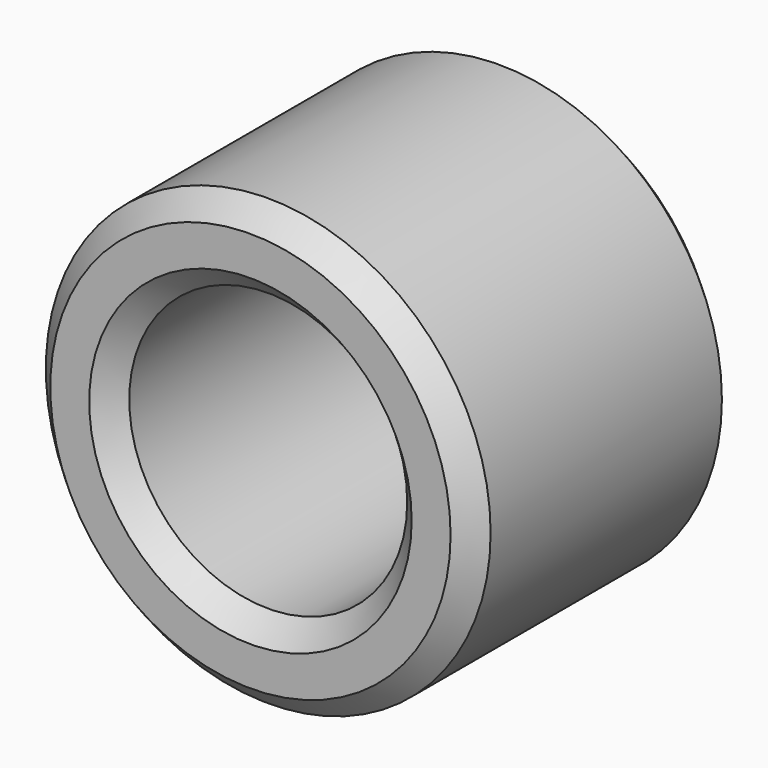
from build123d import *

# Parameters (mm, degrees)
F0_R     = 50.8
F0_R_2   = 31.75
F1_DEPTH = 76.2
F2_SIZE  = 5.08
F3_SIZE  = 5.08


with BuildPart() as f1:
    # F0 (on Front) → F1 (new body)
    with BuildSketch(Plane.XZ):
        Circle(F0_R)
        Circle(F0_R_2, mode=Mode.SUBTRACT)
    extrude(amount=F1_DEPTH)

    # F2
    f2_edges = [f1.edges().sort_by_distance(p)[0] for p in [
        (-31.75, -76.2, 0),
        (-31.75, 0, 0),
    ]]
    chamfer(f2_edges, length=F2_SIZE)

    # F3
    f3_edges = [f1.edges().sort_by_distance(p)[0] for p in [
        (-50.8, -76.2, 0),
        (-50.8, 0, 0),
    ]]
    chamfer(f3_edges, length=F3_SIZE)


solid = f1.part
